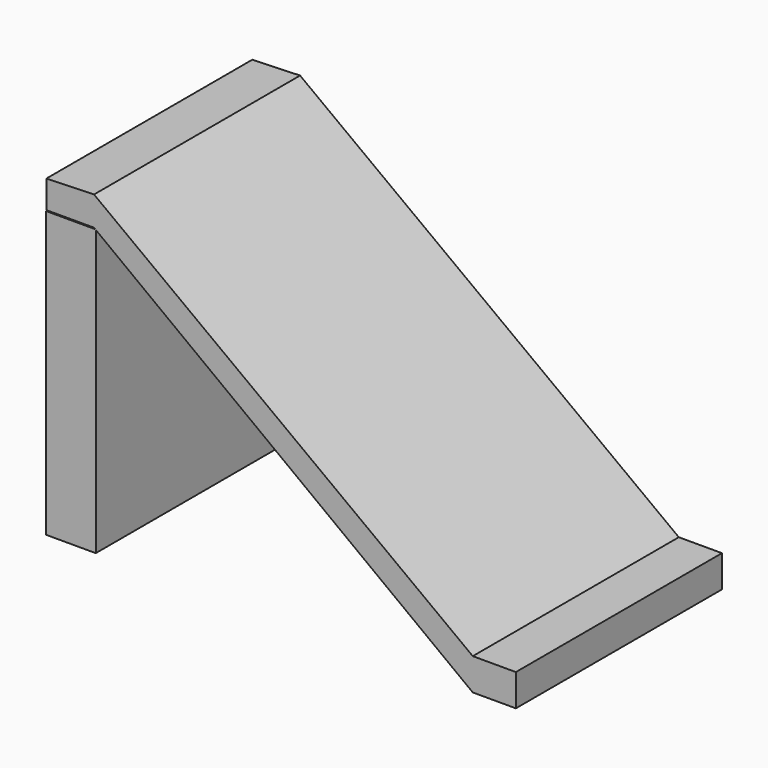
from build123d import *

# Parameters (mm, degrees)
F1_DEPTH = 50.8
F2_W     = 9.801138
F2_H     = 56.212604
F3_DEPTH = 50.8


with BuildPart() as f1:
    # F0 (on Front) → F1 (new body)
    with BuildSketch(Plane.XZ):
        Polygon((-48.203368, 62.170956), (-57.616308, 61.867315), (-57.616308, 56.401737), (-48.203368, 56.401737), (26.492873, 0), (34.994885, 0), (34.994885, 6.300598), (26.492873, 6.300598), align=None)
    extrude(amount=F1_DEPTH)

    # F2 (on Front) → F3 (join)
    with BuildSketch(Plane.XZ):
        with Locations((-52.760078, 28.106302)):
            Rectangle(F2_W, F2_H)
    extrude(amount=F3_DEPTH)


solid = f1.part
